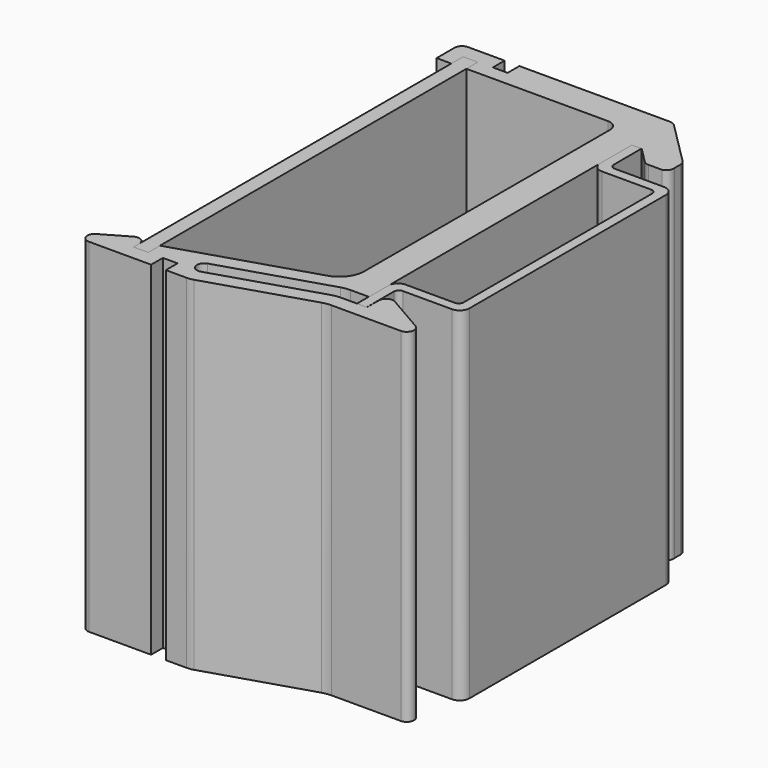
from build123d import *

# Parameters (mm, degrees)
PAD001_DEPTH         = 35
BOX_W                = 1.5
BOX_H                = 42
BOX_DEPTH            = 35
CYLINDER_R           = 1.25
CYLINDER_DEPTH       = 10
CYLINDER_PITCH_ANGLE = -90
PAD_DEPTH            = 35


with BuildPart() as din_rail:
    # Sketch001 → Pad001 (new body)
    with BuildSketch(Plane(origin=(0, 17.5, 0), x_dir=(1, 0, 0), z_dir=(0, 0, 1))):
        with BuildLine():
            Line((0, 0), (0.981065, 0))
            Line((0.981065, 0), (0.981065, -3.535445))
            ThreePointArc((0.981065, -3.535445), (1.127512, -3.888998), (1.481065, -4.035445))
            Line((1.481065, -4.035445), (6.481065, -4.035445))
            ThreePointArc((7.481065, -5.035445), (7.188172, -4.328338), (6.481065, -4.035445))
            Line((7.481065, -5.035445), (7.481065, -30.035445))
            ThreePointArc((6.481065, -31.035445), (7.188172, -30.742552), (7.481065, -30.035445))
            Line((6.481065, -31.035445), (1.481065, -31.035445))
            ThreePointArc((1.481065, -31.035445), (1.127512, -31.181892), (0.981065, -31.535445))
            Line((0.981065, -31.535445), (0.981065, -35))
            Line((0.981065, -35), (-0.018935, -35))
            Line((-0.018935, -35), (-0.018935, -31.035445))
            ThreePointArc((0.981065, -30.035445), (0.273958, -30.328338), (-0.018935, -31.035445))
            Line((0.981065, -30.035445), (5.981065, -30.035445))
            ThreePointArc((5.981065, -30.035445), (6.334618, -29.888998), (6.481065, -29.535445))
            Line((6.481065, -29.535445), (6.481065, -5.535445))
            ThreePointArc((6.481065, -5.535445), (6.334618, -5.181892), (5.981065, -5.035445))
            Line((5.981065, -5.035445), (0.981065, -5.035445))
            ThreePointArc((-0.018935, -4.035445), (0.273958, -4.742552), (0.981065, -5.035445))
            Line((-0.018935, -4.035445), (0, 0))
        make_face()
    extrude(amount=PAD001_DEPTH)


with BuildPart() as pcb:
    # Box → Box (new body)
    with BuildSketch(Plane(origin=(-20, -21, 0), x_dir=(1, 0, 0), z_dir=(0, 0, 1))):
        with Locations((0.75, 21)):
            Rectangle(BOX_W, BOX_H)
    extrude(amount=BOX_DEPTH)


with BuildPart() as bracket_hole:
    # Cylinder → Cylinder (new body)
    with BuildSketch(Plane.XY):
        Circle(CYLINDER_R)
    extrude(amount=CYLINDER_DEPTH)


with BuildPart() as bracket_hole_1:
    # Cylinder pitch: moved
    add(bracket_hole.part.rotate(Axis((0, 0, 0), (0, 1, 0)), CYLINDER_PITCH_ANGLE))


with BuildPart() as bracket_hole_2:
    # Cylinder placement: moved
    add(bracket_hole_1.part.moved(Location((5, 0, 17.5))))


with BuildPart() as din_bracket:
    # Sketch → Pad (new body)
    with BuildSketch(Plane(origin=(-3, 0, 0), x_dir=(1, 0, 0), z_dir=(0, 0, 1))):
        with BuildLine():
            Line((2.771987, 22.541663), (-12.5, 22.541663))
            Line((-12.5, 22.541663), (-12.5, 21.041663))
            Line((-12.5, 21.041663), (-14, 21.041663))
            Line((-14, 21.041663), (-14, 22.541663))
            Line((-14, 22.541663), (-17.75, 22.541663))
            ThreePointArc((-17.75, 22.541663), (-18.28033, 22.321993), (-18.5, 21.791663))
            Line((-18.5, 21.791663), (-18.5, 19.5))
            Line((-18.5, 19.5), (-17, 19.5))
            Line((-17, 19.5), (-17, 21))
            Line((-17, 21), (-15.5, 21))
            Line((-15.5, 21), (-15.5, 19.541663))
            Line((-15.5, 19.541663), (-1.047056, 19.541663))
            ThreePointArc((0, 18.474809), (-0.305125, 19.222587), (-1.047056, 19.541663))
            Line((0, 18.474809), (-0.037298, -12.767241))
            ThreePointArc((-1.830702, -15.207168), (-0.534684, -14.280711), (-0.037298, -12.767241))
            Line((-15.5, -19.5), (-1.830702, -15.207168))
            Line((-15.5, -19.5), (-15.5, -21))
            Line((-15.5, -21), (-17, -21))
            Line((-17, -21), (-17, -20.25))
            ThreePointArc((-17, -20.25), (-17.375, -19.600481), (-18.125, -19.600481))
            Line((-18.125, -19.600481), (-20.723075, -21.100481))
            ThreePointArc((-20.723075, -21.100481), (-21.072519, -21.944114), (-20.348075, -22.5))
            Line((-20.348075, -22.5), (-14, -22.5))
            Line((-14, -22.5), (-14, -21))
            Line((-14, -21), (-12.5, -21))
            Line((-12.5, -21), (-12.5, -22.5))
            Line((-12.5, -22.5), (-10.37868, -22.5))
            ThreePointArc((-10.37868, -22.5), (-10.037666, -22.474008), (-9.704532, -22.396631))
            Line((0.672204, -19.137825), (-9.704532, -22.396631))
            ThreePointArc((1.571068, -19), (1.116383, -19.034657), (0.672204, -19.137825))
            Line((1.571068, -19), (8.646899, -19))
            ThreePointArc((8.646899, -19), (9.371343, -18.444114), (9.021899, -17.600481))
            Line((9.021899, -17.600481), (5.124786, -15.350481))
            ThreePointArc((5.124786, -15.350481), (4.374786, -15.350481), (3.999786, -16))
            Line((3.999786, -16), (3.999786, -17.5))
            Line((3.999786, -17.5), (1.341069, -17.5))
            ThreePointArc((1.341069, -17.5), (0.886384, -17.534657), (0.442205, -17.637825))
            Line((-10.153969, -20.965545), (0.442205, -17.637825))
            ThreePointArc((-10.6034, -19.534458), (-11.094223, -20.474716), (-10.153969, -20.965545))
            Line((0.212206, -16.137825), (-10.6034, -19.534458))
            ThreePointArc((1.111069, -16), (0.656385, -16.034657), (0.212206, -16.137825))
            Line((1.111069, -16), (2.999786, -16))
            Line((2.999786, -16), (2.999786, 17.5))
            Line((2.999786, 17.5), (3.999786, 17.5))
            Line((3.999786, 17.5), (5.556936, 15.942849))
            ThreePointArc((5.556936, 15.942849), (5.815061, 15.743569), (6.133362, 15.672675))
            Line((6.133362, 15.672675), (7.513396, 15.672675))
            ThreePointArc((7.513396, 15.672675), (7.992308, 15.980285), (8.11731, 16.535582))
            Line((8.11731, 16.535582), (8.11731, 17.314455))
            ThreePointArc((8.11731, 17.314455), (8.06022, 17.601467), (7.897641, 17.844785))
            Line((3.50396, 22.23847), (7.897641, 17.844785))
            ThreePointArc((3.50396, 22.23847), (3.168128, 22.462866), (2.771987, 22.541663))
        make_face()
    extrude(amount=PAD_DEPTH)

    # Cut: cut bracket hole
    add(bracket_hole_2.part, mode=Mode.SUBTRACT)


solid = Compound([din_rail.part, pcb.part, din_bracket.part])
